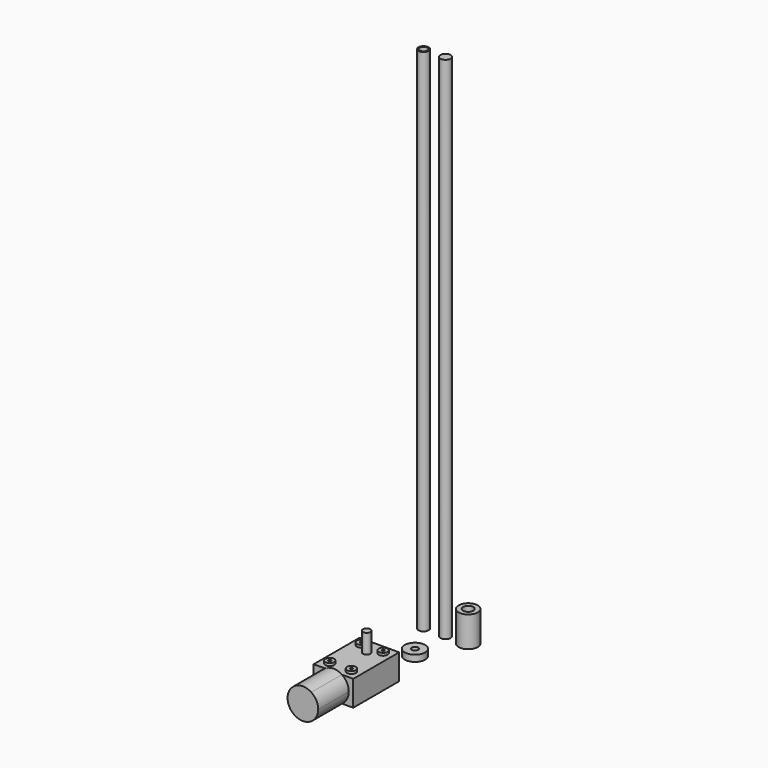
from build123d import *

# Parameters (mm, degrees)
F0_R      = 4
F0_R_2    = 3
F1_DEPTH  = 400
F0_R_3    = 7.5
F2_DEPTH  = 24
F3_W      = 31
F3_H      = 45
F4_DEPTH  = 20
F6_DEPTH  = 30
F8_R      = 3.5
F8_R_2    = 1
F9_DEPTH  = 2
F8_R_3    = 3
F10_DEPTH = 15
F0_R_4    = 8
F0_R_5    = 2.5
F11_DEPTH = 5


with BuildPart() as f1:
    # F0 (on Top) → F1 (new body)
    with BuildSketch(Plane.XY):
        with Locations((-63.1745830178, 63.0441606045)):
            Circle(F0_R)
        with Locations((-63.1745830178, 63.0441606045)):
            Circle(F0_R_2, mode=Mode.SUBTRACT)
    extrude(amount=F1_DEPTH)


with BuildPart() as f1b:
    # F0 (on Top) → F1, piece 2 (new body)
    with BuildSketch(Plane.XY):
        with Locations((-46.235486865, 63.4531006217)):
            Circle(F0_R)
    extrude(amount=F1_DEPTH)


with BuildPart() as f2:
    # F0 (on Top) → F2 (new body)
    with BuildSketch(Plane.XY):
        with Locations((-29.2448699474, 64.4344985485)):
            Circle(F0_R_3)
        with Locations((-29.2448699474, 64.4344985485)):
            Circle(F0_R, mode=Mode.SUBTRACT)
    extrude(amount=F2_DEPTH)


with BuildPart() as f4:
    # F3 (on Top) → F4 (new body)
    with BuildSketch(Plane.XY):
        with Locations((-46.5601142496, -23.5244012473)):
            Rectangle(F3_W, F3_H)
    extrude(amount=F4_DEPTH)

    # F5 (on face) → F6 (join)
    with BuildSketch(Plane.XZ.offset(46.0244012473)):
        with BuildLine():
            ThreePointArc((-39.9268646689, 0), (-35.9865861022, 4.3254513381), (-34.5601142496, 10))
            ThreePointArc((-34.5601142496, 10), (-35.9865861022, 15.6745486619), (-39.9268646689, 20))
            Line((-39.9268646689, 20), (-53.1933638303, 20))
            ThreePointArc((-53.1933638303, 20), (-58.5601142496, 10), (-53.1933638303, 0))
            Line((-53.1933638303, 0), (-39.9268646689, 0))
        make_face()
        with BuildLine():
            Line((-53.1933638303, 20), (-39.9268646689, 20))
            ThreePointArc((-39.9268646689, 20), (-46.5601142496, 22), (-53.1933638303, 20))
        make_face()
        with BuildLine():
            ThreePointArc((-53.1933638303, 0), (-46.5601142496, -2), (-39.9268646689, 0))
            Line((-39.9268646689, 0), (-53.1933638303, 0))
        make_face()
    extrude(amount=F6_DEPTH)

    # F8 (on face) → F9 (join)
    with BuildSketch(Plane.XY.offset(20)):
        with Locations((-55.0601142496, -8.0244012473)):
            Circle(F8_R)
        with Locations((-55.0601142496, -8.0244012473)):
            Circle(F8_R_2, mode=Mode.SUBTRACT)
        with Locations((-38.0601142496, -8.0244012473)):
            Circle(F8_R)
        with Locations((-38.0601142496, -8.0244012473)):
            Circle(F8_R_2, mode=Mode.SUBTRACT)
        with Locations((-38.0601142496, -39.0244012473)):
            Circle(F8_R)
        with Locations((-38.0601142496, -39.0244012473)):
            Circle(F8_R_2, mode=Mode.SUBTRACT)
        with Locations((-55.0601142496, -39.0244012473)):
            Circle(F8_R)
        with Locations((-55.0601142496, -39.0244012473)):
            Circle(F8_R_2, mode=Mode.SUBTRACT)
    extrude(amount=F9_DEPTH)

    # F8 (on face) → F10 (join)
    with BuildSketch(Plane.XY.offset(20)):
        with Locations((-46.5601142496, -13.4815536439)):
            Circle(F8_R_3)
    extrude(amount=F10_DEPTH)


with BuildPart() as f11:
    # F0 (on Top) → F11 (new body)
    with BuildSketch(Plane.XY):
        with Locations((-44.5174388587, 31.2729626894)):
            Circle(F0_R_4)
        with Locations((-44.5174388587, 31.2729626894)):
            Circle(F0_R_5, mode=Mode.SUBTRACT)
    extrude(amount=F11_DEPTH)


solid = Compound([f1.part, f1b.part, f2.part, f4.part, f11.part])
